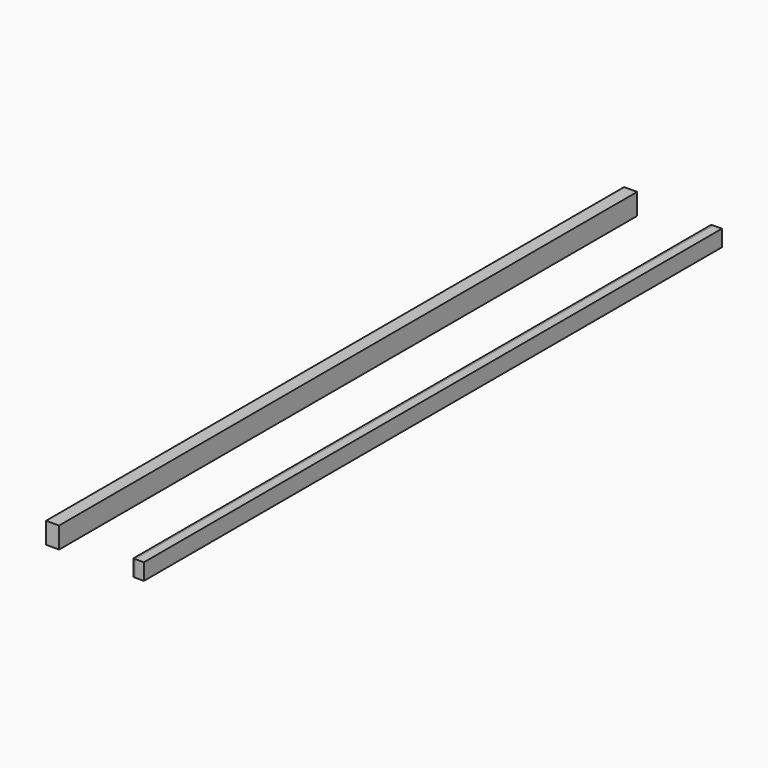
from build123d import *

# Parameters (mm, degrees)
SKETCH004_W     = 27
SKETCH004_H     = 44
PAD004_DEPTH    = 1500
CHAMFER_SIZE    = 10
CHAMFER001_SIZE = 4
SKETCH005_W     = 18
SKETCH005_H     = 34
PAD003_DEPTH    = 1500
SKETCH006_W     = 27
SKETCH006_H     = 44
PAD005_DEPTH    = 450
SKETCH007_W     = 27
SKETCH007_H     = 44
PAD006_DEPTH    = 1500


with BuildPart() as obj1:
    # Sketch004 → Pad004 (new body)
    with BuildSketch(Plane.XZ):
        with Locations((13.5, 22)):
            Rectangle(SKETCH004_W, SKETCH004_H)
    extrude(amount=PAD004_DEPTH)

    # Chamfer
    chamfer_edges = [obj1.edges().sort_by_distance(p)[0] for p in [
        (27, -750, 44),
    ]]
    chamfer(chamfer_edges, length=CHAMFER_SIZE)

    # Chamfer001
    chamfer001_edges = [obj1.edges().sort_by_distance(p)[0] for p in [
        (27, -750, 0),
    ]]
    chamfer(chamfer001_edges, length=CHAMFER001_SIZE)


with BuildPart() as obj1_1:
    # Body004 placement: moved
    add(obj1.part.moved(Location((-191, 750, -59))))


with BuildPart() as obj2:
    # Sketch005 → Pad003 (new body)
    with BuildSketch(Plane.XZ):
        with Locations((-9, 17)):
            Rectangle(SKETCH005_W, SKETCH005_H)
    extrude(amount=PAD003_DEPTH)


with BuildPart() as obj2_1:
    # Body005 placement: moved
    add(obj2.part.moved(Location((-146, 750, -59))))


with BuildPart() as obj3:
    # Body006 base: copy of obj2
    add(obj2_1.part)


with BuildPart() as obj3_1:
    # Body006 placement: moved
    add(obj3.part.moved(Location((154, 0, 0))))


with BuildPart() as obj4:
    # Body007 base: copy of obj2
    add(obj2_1.part)


with BuildPart() as obj4_1:
    # Body007 placement: moved
    add(obj4.part.moved(Location((158, 0, 0))))


with BuildPart() as obj5:
    # Sketch006 → Pad005 (new body)
    with BuildSketch(Plane.XZ):
        with Locations((13.5, 22)):
            Rectangle(SKETCH006_W, SKETCH006_H)
    extrude(amount=PAD005_DEPTH)


with BuildPart() as obj5_1:
    # Body008 placement: moved
    add(obj5.part.moved(Location((-191, 750, -59))))


with BuildPart() as traverse:
    # Sketch007 → Pad006 (new body)
    with BuildSketch(Plane.XZ):
        with Locations((13.5, 22)):
            Rectangle(SKETCH007_W, SKETCH007_H)
    extrude(amount=PAD006_DEPTH)


with BuildPart() as traverse_1:
    # Body009 placement: moved
    add(traverse.part.moved(Location((-191, 750, -59))))


solid = Compound([obj1_1.part, obj3_1.part, obj4_1.part, obj5_1.part, traverse_1.part])
